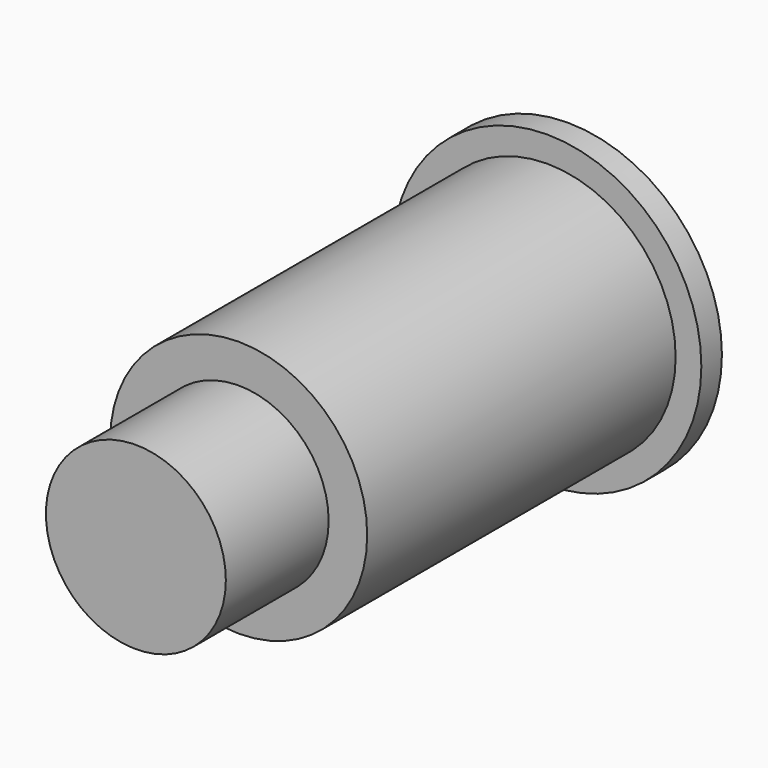
from build123d import *

# Parameters (mm, degrees)
F0_R     = 6.35
F1_DEPTH = 19.05
F2_R     = 7.62
F3_DEPTH = 1.27
F4_R     = 4.445
F5_DEPTH = 6.35


with BuildPart() as f1:
    # F0 (on Front) → F1 (new body)
    with BuildSketch(Plane.XZ):
        Circle(F0_R)
    extrude(amount=F1_DEPTH)

    # F2 (on face) → F3 (join)
    with BuildSketch(Plane(origin=(0, 0, 0), x_dir=(-1, 0, 0), z_dir=(0, 1, 0))):
        Circle(F2_R)
    extrude(amount=F3_DEPTH)

    # F4 (on face) → F5 (join)
    with BuildSketch(Plane.XZ.offset(19.05)):
        Circle(F4_R)
    extrude(amount=F5_DEPTH)


solid = f1.part
